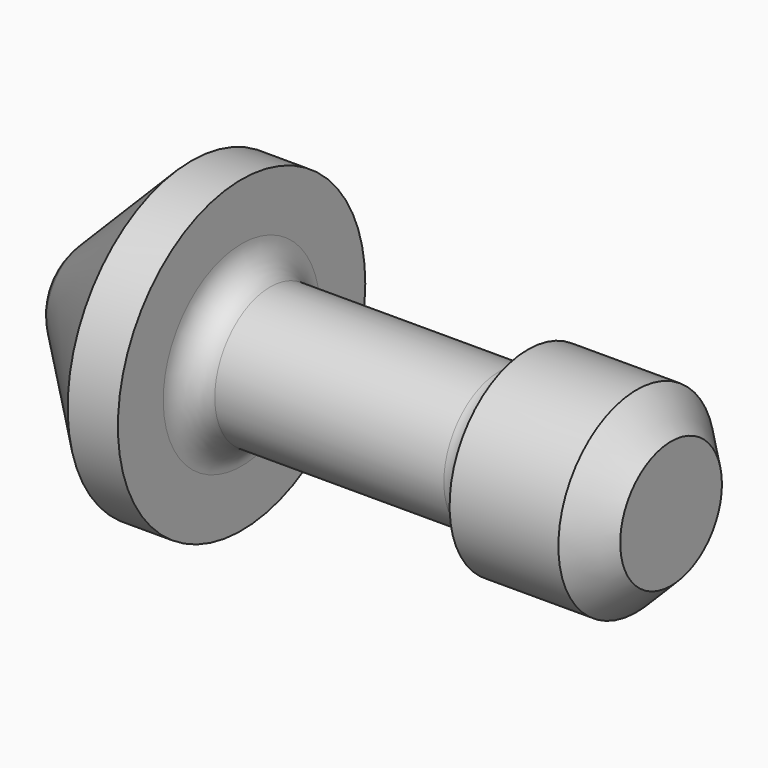
from build123d import *

# Parameters (mm, degrees)
F0_R     = 2.1717
F1_DEPTH = 9.525
F0_R_2   = 3.429
F2_DEPTH = 3.937
F5_SIZE  = 0.762


with BuildPart() as f1:
    # F0 (on Right) → F1 (new body)
    with BuildSketch(Plane.YZ):
        Circle(F0_R)
    extrude(amount=F1_DEPTH)

    # F0 (on Right) → F2 (join)
    with BuildSketch(Plane.YZ):
        Circle(F0_R_2)
        Circle(F0_R, mode=Mode.SUBTRACT)
        Circle(F0_R)
    extrude(amount=-F2_DEPTH)

    # F3 (on Front) → F4 (revolve, cut)
    with BuildSketch(Plane.XZ):
        with BuildLine():
            Line((6.35, 2.1717), (0, 2.1717))
            ThreePointArc((0, 2.1717), (0.185987, 1.722687), (0.635, 1.5367))
            Line((0.635, 1.5367), (5.715, 1.5367))
            ThreePointArc((5.715, 1.5367), (6.164013, 1.722687), (6.35, 2.1717))
        make_face()
    revolve(axis=Axis((3.39265, 0, 0), (1, 0, 0)), mode=Mode.SUBTRACT)

    # F5
    f5_edges = [f1.edges().sort_by_distance(p)[0] for p in [
        (9.525, -2.1717, 0),
    ]]
    chamfer(f5_edges, length=F5_SIZE)

    # F6 (on Front) → F7 (revolve, cut)
    with BuildSketch(Plane.XZ):
        with BuildLine():
            Line((-1.113861, 3.429), (-3.937, 3.429))
            Line((-3.937, 3.429), (-3.937, 0))
            Line((-3.937, 0), (-3.9116, 0))
            ThreePointArc((-3.9116, 0), (-3.795592, 0.58321), (-3.465231, 1.077631))
            Line((-3.465231, 1.077631), (-1.113861, 3.429))
        make_face()
    revolve(axis=Axis((-3.9243, 0, 0), (1, 0, 0)), mode=Mode.SUBTRACT)


solid = f1.part
